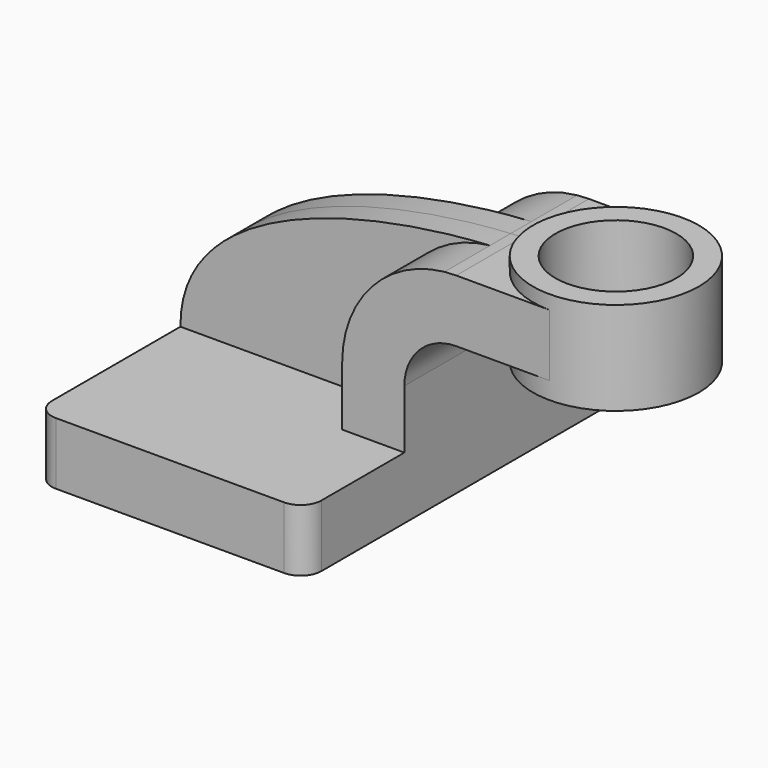
from build123d import *

# Parameters (mm, degrees)
F1_DEPTH = 63.5
F0_W     = 25.4
F0_H     = 19.05
F2_DEPTH = 25.4
F3_DEPTH = 7.9375
F5_R     = 6.35
F6_R     = 18.4889693292
F7_DEPTH = 100.96774064


with BuildPart() as f1:
    # F0 (on Front) → F1 (new body, symmetric)
    with BuildSketch(Plane.XZ):
        Polygon((41.275, -9.525), (41.275, 9.525), (22.225, 9.525), (-41.275, 9.525), (-41.275, -9.525), align=None)
    extrude(amount=F1_DEPTH, both=True)

    # F0 (on Front) → F2 (join, symmetric)
    with BuildSketch(Plane.XZ):
        with BuildLine():
            Line((22.225, 9.525), (41.275, 9.525))
            Line((41.275, 9.525), (41.275, 27.5082))
            ThreePointArc((41.275, 27.5082), (45.9246798487, 38.7335201513), (57.15, 43.3832))
            Line((57.15, 43.3832), (60.325, 43.3832))
            Line((60.325, 43.3832), (60.325, 62.4332))
            Line((60.325, 62.4332), (57.15, 62.4332))
            add(Edge.make_bspline(
                [(53.5324999081, 62.2453460843), (54.7490836223, 62.3182036116), (55.9554653988, 62.3807456949), (57.15, 62.4332)],
                knots=[108.5679461474, 108.5679461474, 108.5679461474, 108.5679461474, 111.7441642872, 111.7441642872, 111.7441642872, 111.7441642872], degree=3))
            ThreePointArc((53.5324999081, 62.2453460843), (31.2068234818, 50.8899710438), (22.225, 27.5082))
            Line((22.225, 27.5082), (22.225, 9.525))
        make_face()
        with Locations((73.025, 52.9082)):
            Rectangle(F0_W, F0_H)
    extrude(amount=F2_DEPTH, both=True)

    # F0 (on Front) → F3 (join, symmetric)
    with BuildSketch(Plane.XZ):
        with BuildLine():
            Line((-41.275, 9.525), (22.225, 9.525))
            Line((22.225, 9.525), (22.225, 27.5082))
            ThreePointArc((22.225, 27.5082), (31.2068234818, 50.8899710438), (53.5324999081, 62.2453460843))
            add(Edge.make_bspline(
                [(-41.275, 9.525), (-41.5565460879, 45.2122684176), (11.9478261389, 59.7549654652), (53.5324999081, 62.2453460843)],
                knots=[0, 0, 0, 0, 108.5679461474, 108.5679461474, 108.5679461474, 108.5679461474], degree=3))
        make_face()
    extrude(amount=F3_DEPTH, both=True)

    # F0 (on Front) → F4 (revolve)
    with BuildSketch(Plane.XZ):
        Polygon((85.725, 62.4332), (85.725, 43.3832), (85.725, 38.1), (111.125, 38.1), (111.125, 66.675), (85.725, 66.675), align=None)
    revolve(axis=Axis((85.725, 0, 52.3875), (0, 0, 1)))

    # F5
    f5_edges = [f1.edges().sort_by_distance(p)[0] for p in [
        (41.275, -63.5, 0),
        (-41.275, -63.5, 0),
        (-41.275, 63.5, 0),
        (41.275, 63.5, 0),
    ]]
    fillet(f5_edges, radius=F5_R)

    # F6 (on face) → F7 (cut)
    with BuildSketch(Plane.XY.offset(66.675)):
        with Locations((85.725, 0)):
            Circle(F6_R)
    extrude(amount=-F7_DEPTH, mode=Mode.SUBTRACT)


solid = f1.part
